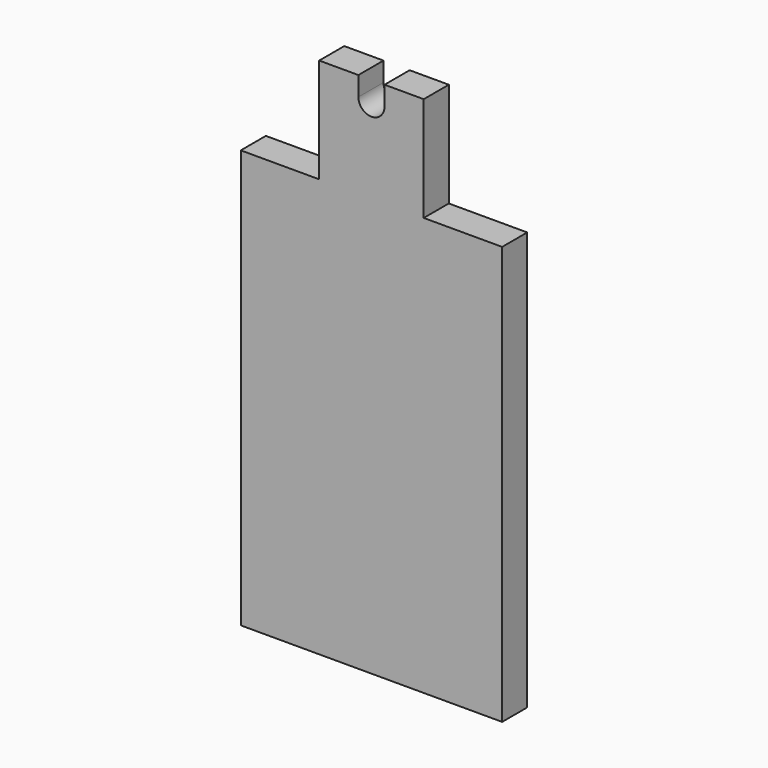
from build123d import *

# Parameters (mm, degrees)
F1_DEPTH = 3


with BuildPart() as f1:
    # F0 (on Front) → F1 (new body)
    with BuildSketch(Plane.XZ):
        with BuildLine():
            Line((0, 40), (0, 0))
            Line((0, 0), (25, 0))
            Line((25, 0), (25, 40))
            Line((25, 40), (17.5, 40))
            Line((17.5, 40), (17.5, 50))
            Line((17.5, 50), (13.75, 50))
            Line((13.75, 50), (13.75, 48.15))
            ThreePointArc((13.75, 48.15), (12.5, 46.9), (11.25, 48.15))
            Line((11.25, 48.15), (11.25, 50))
            Line((11.25, 50), (7.5, 50))
            Line((7.5, 50), (7.5, 40))
            Line((7.5, 40), (0, 40))
        make_face()
    extrude(amount=F1_DEPTH)


solid = f1.part
